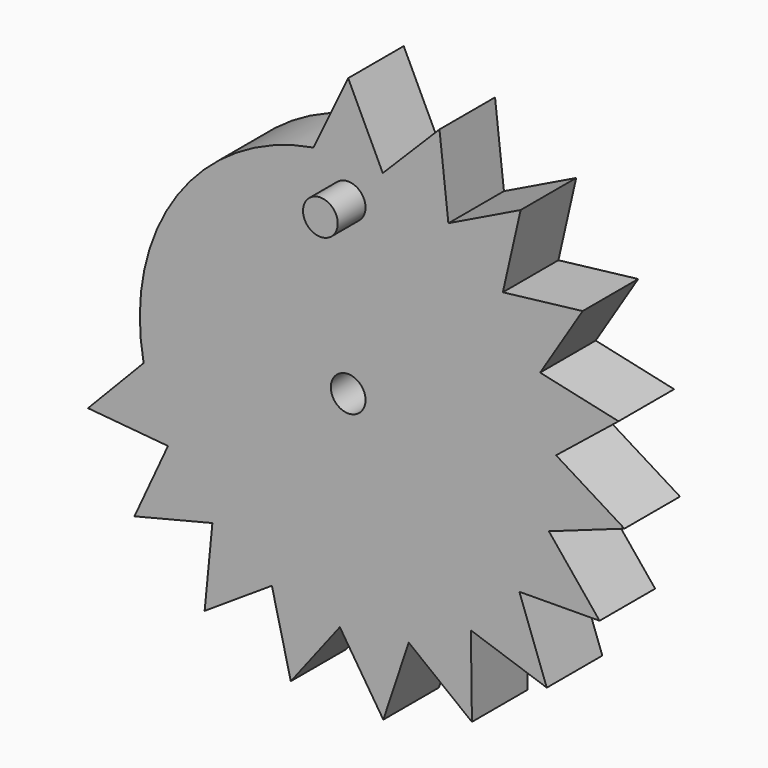
from build123d import *

# Parameters (mm, degrees)
F1_DEPTH = 12.7
F2_R     = 3.175
F3_DEPTH = 25.4
F4_R     = 3.175
F5_DEPTH = 6.35


with BuildPart() as f1:
    # F0 (on Front) → F1 (new body)
    with BuildSketch(Plane.XZ):
        with BuildLine():
            ThreePointArc((37.8926924679, -3.9691129401), (38.0481378193, -1.9872615545), (38.1, 0))
            ThreePointArc((38.1, 0), (38.0802796265, 1.2256849392), (38.0211389202, 2.4501010613))
            ThreePointArc((38.0211389202, 2.4501010613), (37.6847159913, 5.6100071882), (37.0861377222, 8.7308870599))
            Line((37.0861377222, 8.7308870599), (0, 0))
            Line((0, 0), (37.8926924679, -3.9691129401))
        make_face()
        with BuildLine():
            ThreePointArc((38.0211389202, 2.4501010613), (38.0802796265, 1.2256849392), (38.1, 0))
            ThreePointArc((38.1, 0), (38.0481378193, -1.9872615545), (37.8926924679, -3.9691129401))
            Line((37.8926924679, -3.9691129401), (50.5235899572, -5.2921505868))
            Line((50.5235899572, -5.2921505868), (38.0211389202, 2.4501010613))
        make_face()
        with BuildLine():
            ThreePointArc((37.0861377222, 8.7308870599), (37.6847159913, 5.6100071882), (38.0211389202, 2.4501010613))
            Line((38.0211389202, 2.4501010613), (49.4481836296, 11.6411827465))
            Line((49.4481836296, 11.6411827465), (37.0861377222, 8.7308870599))
        make_face()
        with BuildLine():
            Line((50.5235899572, -5.2921505868), (37.8926924679, -3.9691129401))
            ThreePointArc((37.8926924679, -3.9691129401), (37.4301319875, -7.1130316604), (36.7071871912, -10.2074682713))
            Line((36.7071871912, -10.2074682713), (50.5235899572, -5.2921505868))
        make_face()
        with BuildLine():
            ThreePointArc((36.7071871912, -10.2074682713), (37.4301319875, -7.1130316604), (37.8926924679, -3.9691129401))
            Line((37.8926924679, -3.9691129401), (0, 0))
            Line((0, 0), (34.4830101741, -16.2028395455))
            ThreePointArc((34.4830101741, -16.2028395455), (35.7211025782, -13.2518991317), (36.7071871912, -10.2074682713))
        make_face()
        with BuildLine():
            Line((0, 0), (37.0861377222, 8.7308870599))
            ThreePointArc((37.0861377222, 8.7308870599), (36.22262987, 11.8123276834), (35.103576016, 14.8104338522))
            ThreePointArc((35.103576016, 14.8104338522), (33.7472734302, 17.6842171449), (32.1562064918, 20.4349794239))
            Line((32.1562064918, 20.4349794239), (0, 0))
        make_face()
        with BuildLine():
            ThreePointArc((35.103576016, 14.8104338522), (36.22262987, 11.8123276834), (37.0861377222, 8.7308870599))
            Line((37.0861377222, 8.7308870599), (49.4481836296, 11.6411827465))
            Line((49.4481836296, 11.6411827465), (35.103576016, 14.8104338522))
        make_face()
        with BuildLine():
            Line((45.9773468987, -21.6037860606), (36.7071871912, -10.2074682713))
            ThreePointArc((36.7071871912, -10.2074682713), (35.7211025782, -13.2518991317), (34.4830101741, -16.2028395455))
            Line((34.4830101741, -16.2028395455), (45.9773468987, -21.6037860606))
        make_face()
        with BuildLine():
            Line((-35.6836687657, -13.3523699552), (0, 0))
            Line((0, 0), (12.5223688742, 35.9833333333))
            ThreePointArc((12.5223688742, 35.9833333333), (9.4585051951, 36.9072713632), (6.3279129766, 37.5708333333))
            ThreePointArc((6.3279129766, 37.5708333333), (3.175, 37.9674778593), (0, 38.1))
            ThreePointArc((0, 38.1), (-3.175, 37.9674778593), (-6.3279129766, 37.5708333333))
            ThreePointArc((-6.3279129766, 37.5708333333), (-31.3076292243, 21.7127232827), (-37.4057167198, -7.2403284924))
            ThreePointArc((-37.4057167198, -7.2403284924), (-36.6722487771, -10.3322877248), (-35.6836687657, -13.3523699552))
        make_face()
        with BuildLine():
            Line((12.5223688742, 35.9833333333), (0, 0))
            Line((0, 0), (23.6533634291, 29.8685185185))
            ThreePointArc((23.6533634291, 29.8685185185), (21.0633861266, 31.7481301006), (18.3248093399, 33.403762702))
            ThreePointArc((18.3248093399, 33.403762702), (15.4774237877, 34.8146427943), (12.5223688742, 35.9833333333))
        make_face()
        with BuildLine():
            Line((23.6533634291, 29.8685185185), (0, 0))
            Line((0, 0), (32.1562064918, 20.4349794239))
            ThreePointArc((32.1562064918, 20.4349794239), (30.3278908217, 23.0614188268), (28.2856157767, 25.5251628816))
            ThreePointArc((28.2856157767, 25.5251628816), (26.0601338212, 27.7935140855), (23.6533634291, 29.8685185185))
        make_face()
        with BuildLine():
            Line((34.4830101741, -16.2028395455), (0, 0))
            Line((0, 0), (27.2418823053, -26.6362506458))
            ThreePointArc((27.2418823053, -26.6362506458), (29.3810806272, -24.2561765573), (31.3129991985, -21.7049782583))
            ThreePointArc((31.3129991985, -21.7049782583), (33.0128322769, -19.0200658531), (34.4830101741, -16.2028395455))
        make_face()
        with BuildLine():
            Line((27.2418823053, -26.6362506458), (0, 0))
            Line((0, 0), (16.9738786248, -34.110078341))
            ThreePointArc((16.9738786248, -34.110078341), (19.776494162, -32.5653232543), (22.4395890727, -30.7908239943))
            ThreePointArc((22.4395890727, -30.7908239943), (24.9274400911, -28.8137593955), (27.2418823053, -26.6362506458))
        make_face()
        with BuildLine():
            Line((16.9738786248, -34.110078341), (0, 0))
            Line((0, 0), (4.8198884305, -37.7938973317))
            ThreePointArc((4.8198884305, -37.7938973317), (7.9745194566, -37.2561007009), (11.0728912721, -36.4554670643))
            ThreePointArc((11.0728912721, -36.4554670643), (14.0723323397, -35.4059241162), (16.9738786248, -34.110078341))
        make_face()
        with BuildLine():
            Line((4.8198884305, -37.7938973317), (0, 0))
            Line((0, 0), (-7.8696449228, -37.2783943966))
            ThreePointArc((-7.8696449228, -37.2783943966), (-4.7135129662, -37.8073114029), (-1.5241277809, -38.0695026827))
            ThreePointArc((-1.5241277809, -38.0695026827), (1.6536321061, -38.0640972684), (4.8198884305, -37.7938973317))
        make_face()
        with BuildLine():
            Line((-7.8696449228, -37.2783943966), (0, 0))
            Line((0, 0), (-19.6847732846, -32.6208476397))
            ThreePointArc((-19.6847732846, -32.6208476397), (-16.8778217261, -34.1577097268), (-13.9517993027, -35.4535935586))
            ThreePointArc((-13.9517993027, -35.4535935586), (-10.9488050282, -36.4929262797), (-7.8696449228, -37.2783943966))
        make_face()
        with BuildLine():
            Line((-19.6847732846, -32.6208476397), (0, 0))
            Line((0, 0), (-29.3127046149, -24.3387622561))
            ThreePointArc((-29.3127046149, -24.3387622561), (-27.1668169608, -26.71280697), (-24.829270902, -28.8983962613))
            ThreePointArc((-24.829270902, -28.8983962613), (-22.3347082705, -30.8669857043), (-19.6847732846, -32.6208476397))
        make_face()
        with BuildLine():
            Line((-29.3127046149, -24.3387622561), (0, 0))
            Line((0, 0), (-35.6836687657, -13.3523699552))
            ThreePointArc((-35.6836687657, -13.3523699552), (-34.4372769777, -16.2998145498), (-32.9479346233, -19.1322660461))
            ThreePointArc((-32.9479346233, -19.1322660461), (-31.2389772605, -21.8113800507), (-29.3127046149, -24.3387622561))
        make_face()
        with BuildLine():
            ThreePointArc((32.1562064918, 20.4349794239), (33.7472734302, 17.6842171449), (35.103576016, 14.8104338522))
            Line((35.103576016, 14.8104338522), (42.8749419891, 27.2466392318))
            Line((42.8749419891, 27.2466392318), (32.1562064918, 20.4349794239))
        make_face()
        with BuildLine():
            Line((45.9773468987, -21.6037860606), (34.4830101741, -16.2028395455))
            ThreePointArc((34.4830101741, -16.2028395455), (33.0128322769, -19.0200658531), (31.3129991985, -21.7049782583))
            Line((31.3129991985, -21.7049782583), (45.9773468987, -21.6037860606))
        make_face()
        with BuildLine():
            Line((16.6964918323, 47.9777777778), (12.5223688742, 35.9833333333))
            ThreePointArc((12.5223688742, 35.9833333333), (15.4774237877, 34.8146427943), (18.3248093399, 33.403762702))
            Line((18.3248093399, 33.403762702), (16.6964918323, 47.9777777778))
        make_face()
        with BuildLine():
            ThreePointArc((6.3279129766, 37.5708333333), (9.4585051951, 36.9072713632), (12.5223688742, 35.9833333333))
            Line((12.5223688742, 35.9833333333), (16.6964918323, 47.9777777778))
            Line((16.6964918323, 47.9777777778), (6.3279129766, 37.5708333333))
        make_face()
        with BuildLine():
            Line((31.5378179055, 39.824691358), (23.6533634291, 29.8685185185))
            ThreePointArc((23.6533634291, 29.8685185185), (26.0601338212, 27.7935140855), (28.2856157767, 25.5251628816))
            Line((28.2856157767, 25.5251628816), (31.5378179055, 39.824691358))
        make_face()
        with BuildLine():
            ThreePointArc((18.3248093399, 33.403762702), (21.0633861266, 31.7481301006), (23.6533634291, 29.8685185185))
            Line((23.6533634291, 29.8685185185), (31.5378179055, 39.824691358))
            Line((31.5378179055, 39.824691358), (18.3248093399, 33.403762702))
        make_face()
        with BuildLine():
            ThreePointArc((28.2856157767, 25.5251628816), (30.3278908217, 23.0614188268), (32.1562064918, 20.4349794239))
            Line((32.1562064918, 20.4349794239), (42.8749419891, 27.2466392318))
            Line((42.8749419891, 27.2466392318), (28.2856157767, 25.5251628816))
        make_face()
        with BuildLine():
            Line((36.3225097404, -35.515000861), (27.2418823053, -26.6362506458))
            ThreePointArc((27.2418823053, -26.6362506458), (24.9274400911, -28.8137593955), (22.4395890727, -30.7908239943))
            Line((22.4395890727, -30.7908239943), (36.3225097404, -35.515000861))
        make_face()
        with BuildLine():
            ThreePointArc((31.3129991985, -21.7049782583), (29.3810806272, -24.2561765573), (27.2418823053, -26.6362506458))
            Line((27.2418823053, -26.6362506458), (36.3225097404, -35.515000861))
            Line((36.3225097404, -35.515000861), (31.3129991985, -21.7049782583))
        make_face()
        with BuildLine():
            Line((22.6318381664, -45.4801044547), (16.9738786248, -34.110078341))
            ThreePointArc((16.9738786248, -34.110078341), (14.0723323397, -35.4059241162), (11.0728912721, -36.4554670643))
            Line((11.0728912721, -36.4554670643), (22.6318381664, -45.4801044547))
        make_face()
        with BuildLine():
            ThreePointArc((22.4395890727, -30.7908239943), (19.776494162, -32.5653232543), (16.9738786248, -34.110078341))
            Line((16.9738786248, -34.110078341), (22.6318381664, -45.4801044547))
            Line((22.6318381664, -45.4801044547), (22.4395890727, -30.7908239943))
        make_face()
        with BuildLine():
            Line((6.4265179073, -50.3918631089), (4.8198884305, -37.7938973317))
            ThreePointArc((4.8198884305, -37.7938973317), (1.6536321061, -38.0640972684), (-1.5241277809, -38.0695026827))
            Line((-1.5241277809, -38.0695026827), (6.4265179073, -50.3918631089))
        make_face()
        with BuildLine():
            ThreePointArc((11.0728912721, -36.4554670643), (7.9745194566, -37.2561007009), (4.8198884305, -37.7938973317))
            Line((4.8198884305, -37.7938973317), (6.4265179073, -50.3918631089))
            Line((6.4265179073, -50.3918631089), (11.0728912721, -36.4554670643))
        make_face()
        with BuildLine():
            Line((-10.4928598971, -49.7045258621), (-7.8696449228, -37.2783943966))
            ThreePointArc((-7.8696449228, -37.2783943966), (-10.9488050282, -36.4929262797), (-13.9517993027, -35.4535935586))
            Line((-13.9517993027, -35.4535935586), (-10.4928598971, -49.7045258621))
        make_face()
        with BuildLine():
            ThreePointArc((-1.5241277809, -38.0695026827), (-4.7135129662, -37.8073114029), (-7.8696449228, -37.2783943966))
            Line((-7.8696449228, -37.2783943966), (-10.4928598971, -49.7045258621))
            Line((-10.4928598971, -49.7045258621), (-1.5241277809, -38.0695026827))
        make_face()
        with BuildLine():
            Line((-26.2463643795, -43.4944635196), (-19.6847732846, -32.6208476397))
            ThreePointArc((-19.6847732846, -32.6208476397), (-22.3347082705, -30.8669857043), (-24.829270902, -28.8983962613))
            Line((-24.829270902, -28.8983962613), (-26.2463643795, -43.4944635196))
        make_face()
        with BuildLine():
            ThreePointArc((-13.9517993027, -35.4535935586), (-16.8778217261, -34.1577097268), (-19.6847732846, -32.6208476397))
            Line((-19.6847732846, -32.6208476397), (-26.2463643795, -43.4944635196))
            Line((-26.2463643795, -43.4944635196), (-13.9517993027, -35.4535935586))
        make_face()
        with BuildLine():
            Line((-39.0836061532, -32.4516830082), (-29.3127046149, -24.3387622561))
            ThreePointArc((-29.3127046149, -24.3387622561), (-31.2389772605, -21.8113800507), (-32.9479346233, -19.1322660461))
            Line((-32.9479346233, -19.1322660461), (-39.0836061532, -32.4516830082))
        make_face()
        with BuildLine():
            ThreePointArc((-24.829270902, -28.8983962613), (-27.1668169608, -26.71280697), (-29.3127046149, -24.3387622561))
            Line((-29.3127046149, -24.3387622561), (-39.0836061532, -32.4516830082))
            Line((-39.0836061532, -32.4516830082), (-24.829270902, -28.8983962613))
        make_face()
        with BuildLine():
            Line((-47.5782250209, -17.8031599403), (-35.6836687657, -13.3523699552))
            ThreePointArc((-35.6836687657, -13.3523699552), (-36.6722487771, -10.3322877248), (-37.4057167198, -7.2403284924))
            Line((-37.4057167198, -7.2403284924), (-47.5782250209, -17.8031599403))
        make_face()
        with BuildLine():
            ThreePointArc((-32.9479346233, -19.1322660461), (-34.4372769777, -16.2998145498), (-35.6836687657, -13.3523699552))
            Line((-35.6836687657, -13.3523699552), (-47.5782250209, -17.8031599403))
            Line((-47.5782250209, -17.8031599403), (-32.9479346233, -19.1322660461))
        make_face()
        with BuildLine():
            ThreePointArc((0, 38.1), (3.175, 37.9674778593), (6.3279129766, 37.5708333333))
            Line((6.3279129766, 37.5708333333), (0, 50.8))
            Line((0, 50.8), (0, 38.1))
        make_face()
        with BuildLine():
            ThreePointArc((-6.3279129766, 37.5708333333), (-3.175, 37.9674778593), (0, 38.1))
            Line((0, 38.1), (0, 50.8))
            Line((0, 50.8), (-6.3279129766, 37.5708333333))
        make_face()
    extrude(amount=F1_DEPTH)

    # F2 (on face) → F3 (cut)
    with BuildSketch(Plane.XZ.offset(12.7)):
        Circle(F2_R)
    extrude(amount=-F3_DEPTH, mode=Mode.SUBTRACT)

    # F4 (on face) → F5 (join)
    with BuildSketch(Plane.XZ.offset(12.7)):
        with Locations((0, 31)):
            Circle(F4_R)
    extrude(amount=F5_DEPTH)


solid = f1.part
